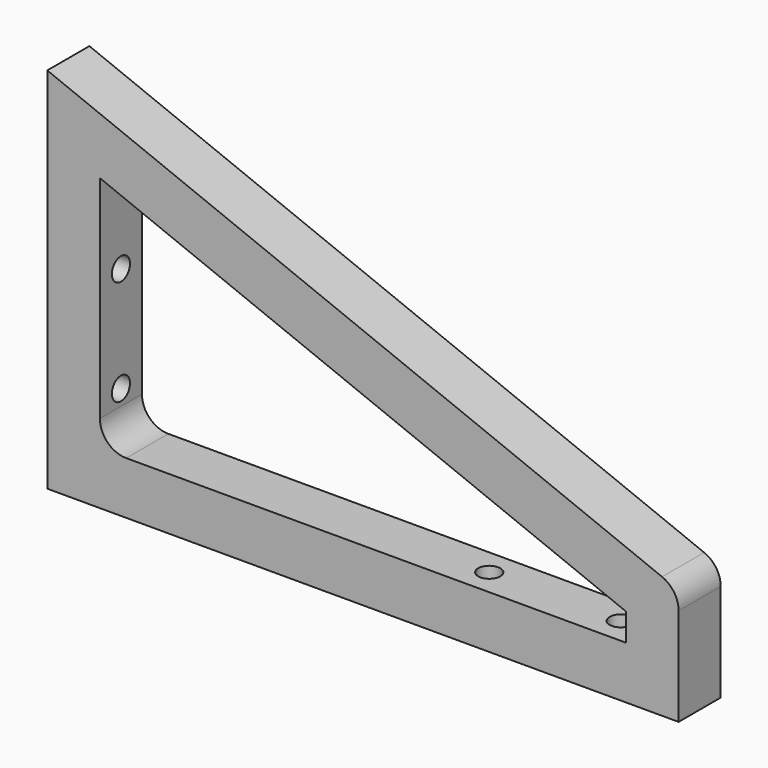
from build123d import *

# Parameters (mm, degrees)
F1_DEPTH = 10
F2_R     = 5
F4_DEPTH = 10.001
F5_R     = 5
F7_D     = 4.2
F7_DEPTH = 10.001
F9_D     = 4.3
F9_DEPTH = 15
F9_TIP   = 1.2918503309


with BuildPart() as f1:
    # F0 (on Front) → F1 (new body)
    with BuildSketch(Plane.XZ):
        Polygon((0, 70), (0, 0), (120, 0), (120, 22), align=None)
    extrude(amount=F1_DEPTH)

    # F2
    f2_edges = [f1.edges().sort_by_distance(p)[0] for p in [
        (120, -5, 22),
    ]]
    fillet(f2_edges, radius=F2_R)

    # F3 (on Front) → F4 (cut, through all)
    with BuildSketch(Plane.XZ):
        Polygon((10, 55.2296703857), (10, 10), (110, 10), (110, 15.2296703857), align=None)
    extrude(amount=F4_DEPTH, mode=Mode.SUBTRACT)

    # F5
    f5_edges = [f1.edges().sort_by_distance(p)[0] for p in [
        (10, -5, 10),
    ]]
    fillet(f5_edges, radius=F5_R)

    # F7 (through all, one way)
    with BuildSketch(Plane.XY.offset(10)):
        with Locations((80, -5), (105, -5)):
            Circle(F7_D / 2)
    extrude(amount=-F7_DEPTH, mode=Mode.SUBTRACT)

    # F9
    with Locations(Plane(origin=(0, 0, 0), x_dir=(0, 1, 0), z_dir=(-1, 0, 0))):
        with Locations((-5, -38), (-5, -18)):
            Hole(F9_D / 2, depth=F9_DEPTH)
            with Locations((0, 0, -(F9_DEPTH + F9_TIP / 2))):  # 118° drill point
                Cone(0, F9_D / 2, F9_TIP, mode=Mode.SUBTRACT)


solid = f1.part
